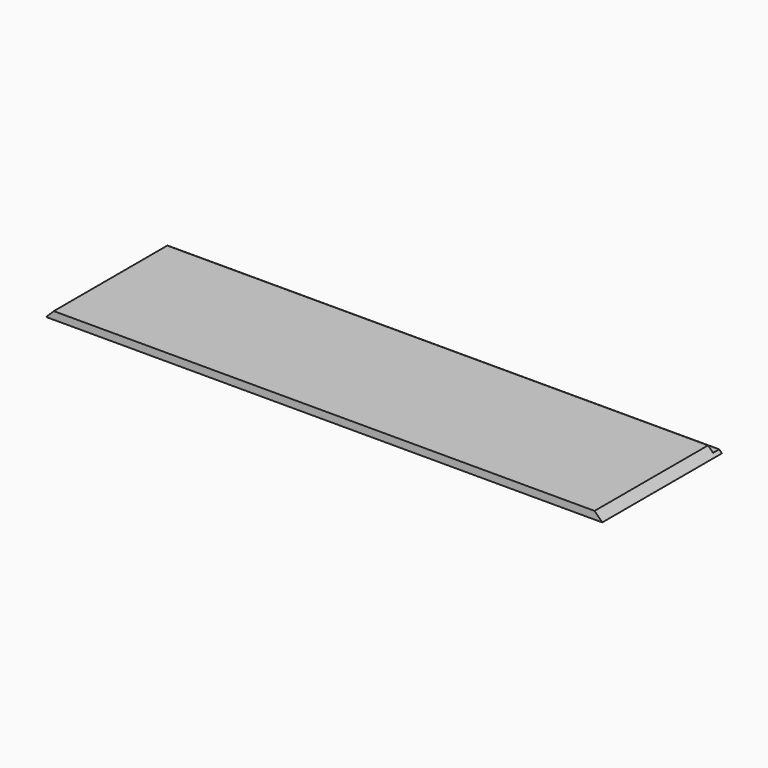
from build123d import *

# Parameters (mm, degrees)
F0_W     = 1450
F0_H     = 415
F1_DEPTH = 20
F2_W     = 20
F2_H     = 13
F3_DEPTH = 1450
F5_DEPTH = 510
F6_W     = 1450
F6_H     = 25
F7_DEPTH = 25


with BuildPart() as f1:
    # F0 (on Top) → F1 (new body)
    with BuildSketch(Plane.XY):
        Rectangle(F0_W, F0_H)
    extrude(amount=F1_DEPTH)

    # F2 (on face) → F3 (cut)
    with BuildSketch(Plane.YZ.offset(725)):
        with Locations((197.5, 13.5)):
            Rectangle(F2_W, F2_H)
    extrude(amount=-F3_DEPTH, mode=Mode.SUBTRACT)

    # F4 (on face) → F5 (cut)
    with BuildSketch(Plane.XZ.offset(207.5)):
        Polygon((725, 0), (725, 20), (705, 20), align=None)
        Polygon((-725, 20), (-725, 0), (-705, 20), align=None)
    extrude(amount=-F5_DEPTH, mode=Mode.SUBTRACT)

    # F6 (on face) → F7 (cut)
    with BuildSketch(Plane(origin=(0, 0, 0), x_dir=(1, 0, 0), z_dir=(0, 0, -1))):
        with Locations((0, 195)):
            Rectangle(F6_W, F6_H)
    extrude(amount=-F7_DEPTH, mode=Mode.SUBTRACT)


solid = f1.part
